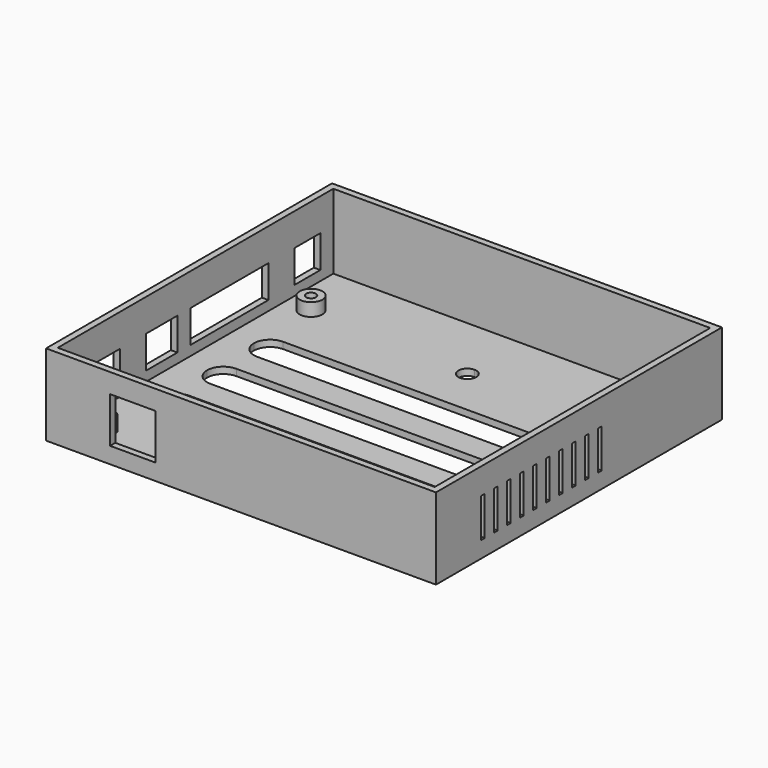
from build123d import *

# Parameters (mm, degrees)
F0_W      = 120
F0_H      = 110
F1_DEPTH  = 25
F2_W      = 116
F2_H      = 106
F3_DEPTH  = 23
F4_R      = 3.5
F5_DEPTH  = 4
F6_R      = 1.5
F7_DEPTH  = 4
F8_R      = 1.5
F9_DEPTH  = 4
F10_R     = 1.5
F11_DEPTH = 4
F12_R     = 1.5
F13_DEPTH = 4
F14_W     = 14
F14_H     = 14
F15_DEPTH = 5
F16_W     = 12
F16_H     = 10
F16_W_2   = 30
F16_W_3   = 10
F17_DEPTH = 2
F18_DEPTH = 25
F19_DEPTH = 25
F20_DEPTH = 25
F21_DEPTH = 25
F22_W     = 1.3961357757
F22_H     = 12
F23_DEPTH = 25


with BuildPart() as f1:
    # F0 (on Top) → F1 (new body)
    with BuildSketch(Plane.XY):
        Rectangle(F0_W, F0_H)
    extrude(amount=F1_DEPTH)

    # F2 (on face) → F3 (cut)
    with BuildSketch(Plane.XY.offset(25)):
        Rectangle(F2_W, F2_H)
    extrude(amount=-F3_DEPTH, mode=Mode.SUBTRACT)

    # F4 (on face) → F5 (join)
    with BuildSketch(Plane.XY.offset(2)):
        with Locations((-50.2721771598, 34.7715031275)):
            Circle(F4_R)
        with Locations((49.7278228402, 34.7715031275)):
            Circle(F4_R)
        with Locations((49.7278228402, -45.2284968725)):
            Circle(F4_R)
        with Locations((-50.2721771598, -45.2284968725)):
            Circle(F4_R)
    extrude(amount=F5_DEPTH)

    # F6 (on face) → F7 (cut)
    with BuildSketch(Plane.XY.offset(6)):
        with Locations((-50.2721771598, 34.7715031275)):
            Circle(F6_R)
    extrude(amount=-F7_DEPTH, mode=Mode.SUBTRACT)

    # F8 (on face) → F9 (cut)
    with BuildSketch(Plane.XY.offset(6)):
        with Locations((49.7278228402, 34.7715031275)):
            Circle(F8_R)
    extrude(amount=-F9_DEPTH, mode=Mode.SUBTRACT)

    # F10 (on face) → F11 (cut)
    with BuildSketch(Plane.XY.offset(6)):
        with Locations((49.7278228402, -45.2284968725)):
            Circle(F10_R)
    extrude(amount=-F11_DEPTH, mode=Mode.SUBTRACT)

    # F12 (on face) → F13 (cut)
    with BuildSketch(Plane.XY.offset(6)):
        with Locations((-50.2721771598, -45.2284968725)):
            Circle(F12_R)
    extrude(amount=-F13_DEPTH, mode=Mode.SUBTRACT)

    # F14 (on face) → F15 (cut)
    with BuildSketch(Plane.XZ.offset(55)):
        with Locations((-33.3, 12)):
            Rectangle(F14_W, F14_H)
    extrude(amount=-F15_DEPTH, mode=Mode.SUBTRACT)

    # F16 (on face) → F17 (cut)
    with BuildSketch(Plane(origin=(-60, 0, 0), x_dir=(0, -1, 0), z_dir=(-1, 0, 0))):
        with Locations((35, 10)):
            Rectangle(F16_W, F16_H)
        with Locations((13, 10)):
            Rectangle(F16_W, F16_H)
        with Locations((-13, 10)):
            Rectangle(F16_W_2, F16_H)
        with Locations((-43, 10)):
            Rectangle(F16_W_3, F16_H)
    extrude(amount=-F17_DEPTH, mode=Mode.SUBTRACT)

    # F4 (on face) → F18 (cut)
    with BuildSketch(Plane.XY.offset(2)):
        with BuildLine():
            Line((-45.2721779048, 7.7715031275), (-0.2721771598, 7.7715031275))
            Line((-0.2721771598, 7.7715031275), (-0.2721771598, 17.7715031275))
            Line((-0.2721771598, 17.7715031275), (-45.2721779048, 17.7715031275))
            ThreePointArc((-45.2721779048, 17.7715031275), (-48.8077118108, 16.3070370335), (-50.2721779048, 12.7715031275))
            ThreePointArc((-50.2721779048, 12.7715031275), (-48.8077118108, 9.2359692216), (-45.2721779048, 7.7715031275))
        make_face()
        with BuildLine():
            Line((-0.2721771598, 17.7715031275), (-0.2721771598, 7.7715031275))
            Line((-0.2721771598, 7.7715031275), (44.7278220952, 7.7715031275))
            ThreePointArc((44.7278220952, 7.7715031275), (48.2633560011, 9.2359692216), (49.7278220952, 12.7715031275))
            ThreePointArc((49.7278220952, 12.7715031275), (48.2633560011, 16.3070370335), (44.7278220952, 17.7715031275))
            Line((44.7278220952, 17.7715031275), (-0.2721771598, 17.7715031275))
        make_face()
    extrude(amount=-F18_DEPTH, mode=Mode.SUBTRACT)

    # F4 (on face) → F19 (cut)
    with BuildSketch(Plane.XY.offset(2)):
        with BuildLine():
            Line((-0.2721771598, -18.2284968725), (-0.2721771598, -28.2284968725))
            Line((-0.2721771598, -28.2284968725), (44.7278220952, -28.2284968725))
            ThreePointArc((44.7278220952, -28.2284968725), (48.2633560011, -26.7640307784), (49.7278220952, -23.2284968725))
            ThreePointArc((49.7278220952, -23.2284968725), (48.2633560011, -19.6929629665), (44.7278220952, -18.2284968725))
            Line((44.7278220952, -18.2284968725), (-0.2721771598, -18.2284968725))
        make_face()
        with BuildLine():
            Line((49.7278228402, -5.2284968725), (-0.2721771598, -5.2284968725))
            Line((-0.2721771598, -5.2284968725), (-0.2721771598, -10.2284968725))
            Line((-0.2721771598, -10.2284968725), (44.7278228402, -10.2284968725))
            ThreePointArc((44.7278228402, -10.2284968725), (48.2633567461, -8.7640307784), (49.7278228402, -5.2284968725))
        make_face()
        with BuildLine():
            ThreePointArc((-45.2721771598, -0.2284968725), (-48.8077110657, -1.6929629665), (-50.2721771598, -5.2284968725))
            Line((-50.2721771598, -5.2284968725), (-0.2721771598, -5.2284968725))
            Line((-0.2721771598, -5.2284968725), (-0.2721771598, -0.2284968725))
            Line((-0.2721771598, -0.2284968725), (-45.2721771598, -0.2284968725))
        make_face()
        with BuildLine():
            Line((-0.2721771598, -5.2284968725), (-50.2721771598, -5.2284968725))
            ThreePointArc((-50.2721771598, -5.2284968725), (-48.8077110657, -8.7640307784), (-45.2721771598, -10.2284968725))
            Line((-45.2721771598, -10.2284968725), (-0.2721771598, -10.2284968725))
            Line((-0.2721771598, -10.2284968725), (-0.2721771598, -5.2284968725))
        make_face()
        with BuildLine():
            Line((-45.2721779048, -28.2284968725), (-0.2721771598, -28.2284968725))
            Line((-0.2721771598, -28.2284968725), (-0.2721771598, -18.2284968725))
            Line((-0.2721771598, -18.2284968725), (-45.2721779048, -18.2284968725))
            ThreePointArc((-45.2721779048, -18.2284968725), (-48.8077118108, -19.6929629665), (-50.2721779048, -23.2284968725))
            ThreePointArc((-50.2721779048, -23.2284968725), (-48.8077118108, -26.7640307784), (-45.2721779048, -28.2284968725))
        make_face()
        with BuildLine():
            Line((-0.2721771598, -0.2284968725), (-0.2721771598, -5.2284968725))
            Line((-0.2721771598, -5.2284968725), (49.7278228402, -5.2284968725))
            ThreePointArc((49.7278228402, -5.2284968725), (48.2633567461, -1.6929629665), (44.7278228402, -0.2284968725))
            Line((44.7278228402, -0.2284968725), (-0.2721771598, -0.2284968725))
        make_face()
    extrude(amount=-F19_DEPTH, mode=Mode.SUBTRACT)

    # F4 (on face) → F20 (cut)
    with BuildSketch(Plane.XY.offset(2)):
        with BuildLine():
            ThreePointArc((2.4778228402, 32.4033908546), (1.6723664885, 34.3479345029), (-0.2721771598, 35.1533908546))
            Line((-0.2721771598, 35.1533908546), (-0.2721771598, 29.6533908546))
            ThreePointArc((-0.2721771598, 29.6533908546), (1.6723664885, 30.4588472063), (2.4778228402, 32.4033908546))
        make_face()
        with BuildLine():
            Line((-0.2721771598, 29.6533908546), (-0.2721771598, 35.1533908546))
            ThreePointArc((-0.2721771598, 35.1533908546), (-3.0221771598, 32.4033908546), (-0.2721771598, 29.6533908546))
        make_face()
    extrude(amount=-F20_DEPTH, mode=Mode.SUBTRACT)

    # F4 (on face) → F21 (cut)
    with BuildSketch(Plane.XY.offset(2)):
        with BuildLine():
            Line((-0.2721771598, -37.3684372604), (-0.2721771598, -42.8684372604))
            ThreePointArc((-0.2721771598, -42.8684372604), (1.6723664885, -42.0629809087), (2.4778228402, -40.1184372604))
            ThreePointArc((2.4778228402, -40.1184372604), (1.6723664885, -38.1738936121), (-0.2721771598, -37.3684372604))
        make_face()
        with BuildLine():
            ThreePointArc((-0.2721771598, -37.3684372604), (-3.0221771598, -40.1184372604), (-0.2721771598, -42.8684372604))
            Line((-0.2721771598, -42.8684372604), (-0.2721771598, -37.3684372604))
        make_face()
    extrude(amount=-F21_DEPTH, mode=Mode.SUBTRACT)

    # F22 (on face) → F23 (cut)
    with BuildSketch(Plane.YZ.offset(60)):
        with Locations((8.0433619022, 11)):
            Rectangle(F22_W, F22_H)
        with Locations((3.0433619022, 11)):
            Rectangle(F22_W, F22_H)
        with Locations((-1.9566380978, 11)):
            Rectangle(F22_W, F22_H)
        with Locations((-6.9566380978, 11)):
            Rectangle(F22_W, F22_H)
        with Locations((-11.9566380978, 11)):
            Rectangle(F22_W, F22_H)
        with Locations((-16.9566380978, 11)):
            Rectangle(F22_W, F22_H)
        with Locations((-21.9566380978, 11)):
            Rectangle(F22_W, F22_H)
        with Locations((-26.9566380978, 11)):
            Rectangle(F22_W, F22_H)
        with Locations((-31.9566380978, 11)):
            Rectangle(F22_W, F22_H)
        with Locations((-36.9566380978, 11)):
            Rectangle(F22_W, F22_H)
    extrude(amount=-F23_DEPTH, mode=Mode.SUBTRACT)


solid = f1.part
